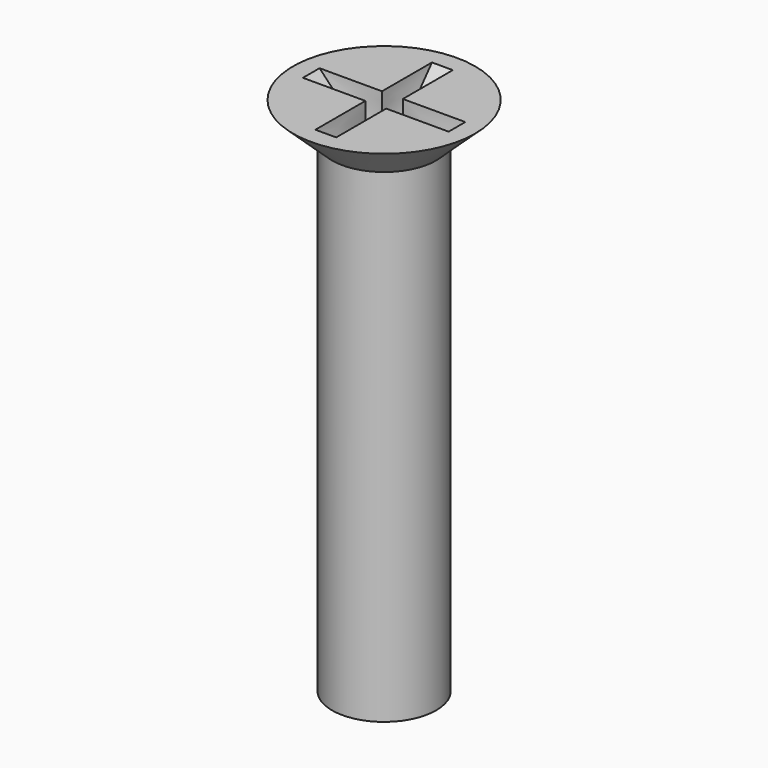
from build123d import *

# Parameters (mm, degrees)
CYLINDER023_R     = 1
CYLINDER023_DEPTH = 9.5
SKETCH011_W       = 0.4
SKETCH011_H       = 0.4


with BuildPart() as part:
    # Cylinder023 → Cylinder023 (join)
    with BuildSketch(Plane.XY):
        Circle(CYLINDER023_R)
    extrude(amount=CYLINDER023_DEPTH)

    # Cone003 → Cone003 (revolve)
    with BuildSketch(Plane(origin=(0, 0, 9.3), x_dir=(1, 0, 0), z_dir=(0, -1, 0))):
        Polygon((0, 0), (1, 0), (1.75, 0.7), (0, 0.7), align=None)
    revolve(axis=Axis((0, 0, 9.3), (0, 0, 1)))

    # Sketch010 (on Face4 of Cone003) → SubtractiveLoft001 section 0
    with BuildSketch(Plane.XY.offset(10)):
        Polygon((-0.2, 0.2), (-0.2, 1.4), (0.2, 1.4), (0.2, 0.2), (1.4, 0.2), (1.4, -0.2), (0.2, -0.2), (0.2, -1.4), (-0.2, -1.4), (-0.2, -0.2), (-1.4, -0.2), (-1.4, 0.2), align=None)
    # Sketch011 (on Face4 of Cone003) → SubtractiveLoft001 section 1
    with BuildSketch(Plane.XY.offset(9)):
        Rectangle(SKETCH011_W, SKETCH011_H)
    loft(mode=Mode.SUBTRACT)


with BuildPart() as part_1:
    # Body011 placement: moved
    add(part.part.moved(Location((42.25, 30.5, -3.5))))


solid = part_1.part
